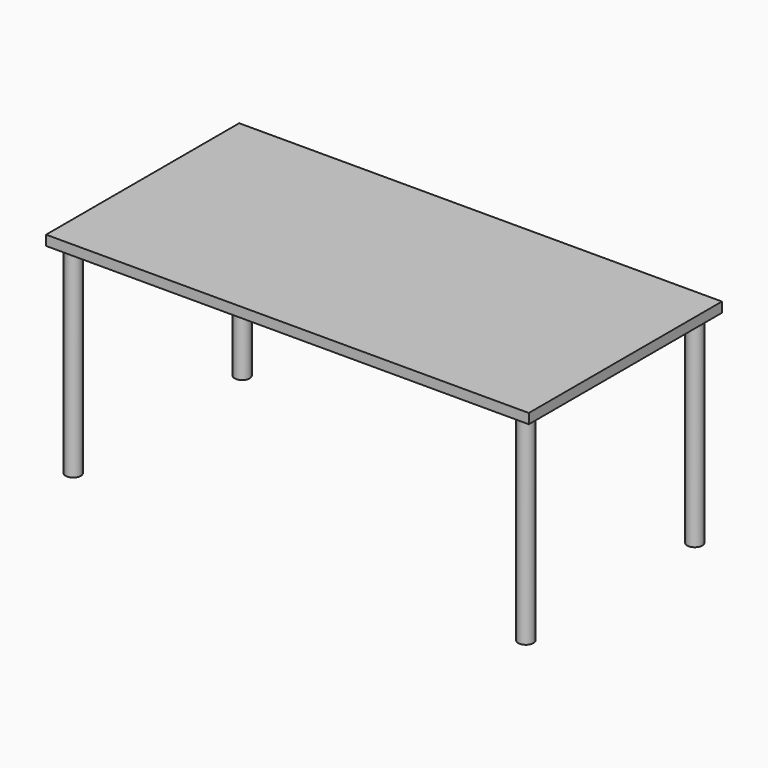
from build123d import *

# Parameters (mm, degrees)
F1_W     = 1600
F1_H     = 800
F2_DEPTH = 33
F3_R     = 25
F4_DEPTH = 700


with BuildPart() as f2:
    # F1 (on Top) → F2 (new body)
    with BuildSketch(Plane.XY):
        with Locations((800, 400)):
            Rectangle(F1_W, F1_H)
    extrude(amount=-F2_DEPTH)

    # F3 (on Top) → F4 (join)
    with BuildSketch(Plane.XY):
        with Locations((1550, 50)):
            Circle(F3_R)
        with Locations((1550, 750)):
            Circle(F3_R)
        with Locations((50, 750)):
            Circle(F3_R)
        with Locations((50, 50)):
            Circle(F3_R)
    extrude(amount=-F4_DEPTH)


solid = f2.part
